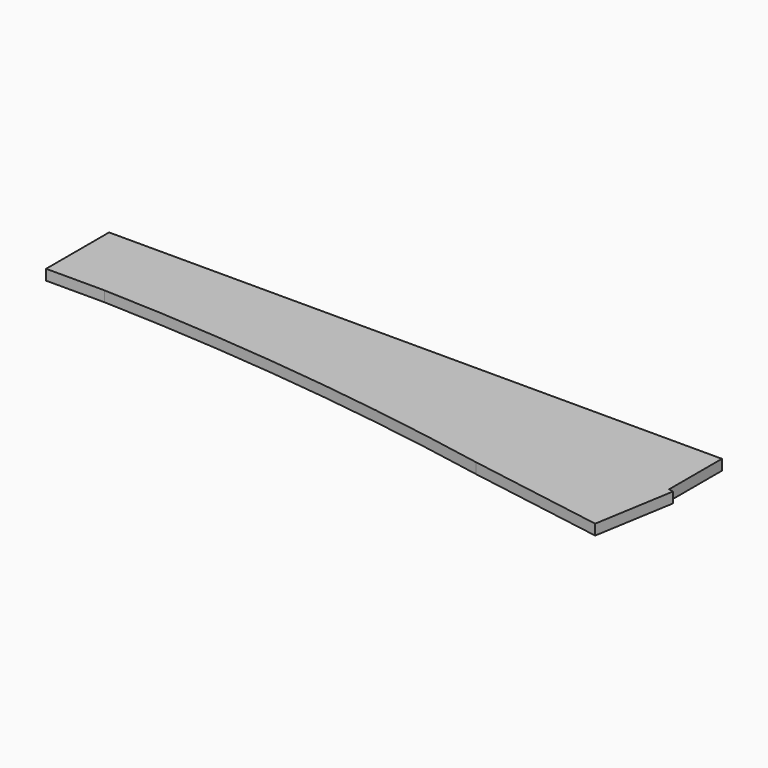
from build123d import *

# Parameters (mm, degrees)
F1_DEPTH = 4


with BuildPart() as f1:
    # F0 (on Top) → F1 (new body)
    with BuildSketch(Plane.XY):
        with BuildLine():
            Line((94.75759, -10.870284), (-138.74241, -10.870284))
            Line((-138.74241, -10.870284), (-138.74241, -40.870284))
            Line((-138.74241, -40.870284), (-116.457991, -40.870284))
            ThreePointArc((-116.457991, -40.870284), (-38.403893, -46.486666), (38.957737, -58.283451))
            Line((38.957737, -58.283451), (91.420449, -67.062698))
            Line((91.420449, -67.062698), (96.55672, -36.369552))
            Line((96.55672, -36.369552), (94.75759, -36.068481))
            Line((94.75759, -36.068481), (94.75759, -10.870284))
        make_face()
    extrude(amount=F1_DEPTH)


solid = f1.part
